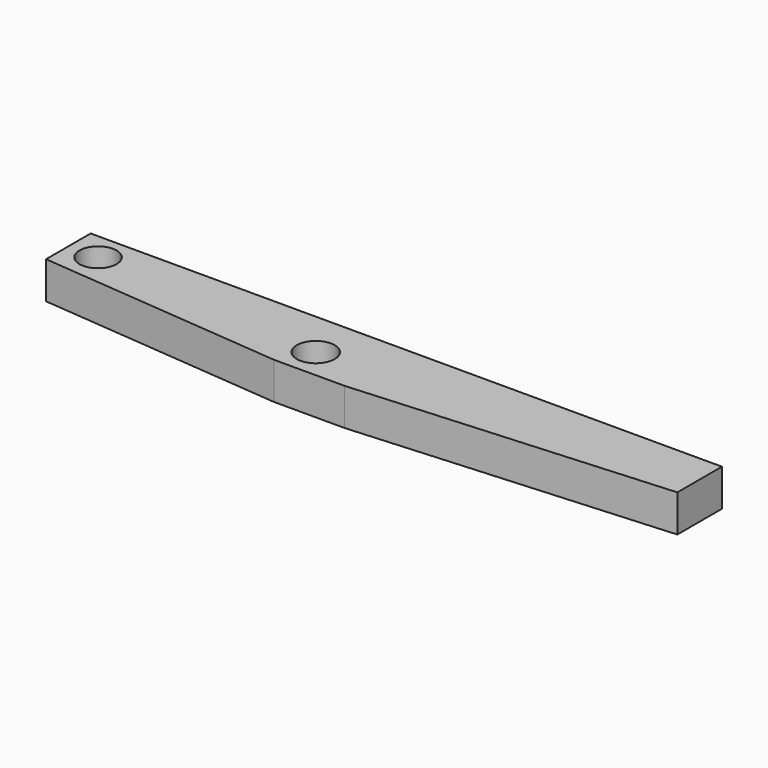
from build123d import *

# Parameters (mm, degrees)
F0_R     = 3.175
F1_DEPTH = 6.35
F2_R     = 1.27
F3_DEPTH = 6.35


with BuildPart() as f1:
    # F0 (on Top) → F1 (new body)
    with BuildSketch(Plane.XY):
        with BuildLine():
            Line((53.975, -4.7625), (53.975, 4.7625))
            Line((53.975, 4.7625), (-53.975, 4.7625))
            Line((-53.975, 4.7625), (-53.975, -4.7625))
            Line((-53.975, -4.7625), (-11.932037, -4.7625))
            ThreePointArc((-11.932037, -4.7625), (-9.846276, -0.107658), (-5.8293, -3.2512))
            ThreePointArc((-5.8293, -3.2512), (-5.924258, -4.029676), (-6.203563, -4.7625))
            Line((-6.203563, -4.7625), (53.975, -4.7625))
        make_face()
        with Locations((-48.895, 0)):
            Circle(F0_R, mode=Mode.SUBTRACT)
        with BuildLine():
            Line((0, -8.467332), (53.975, -4.7625))
            Line((53.975, -4.7625), (-6.203563, -4.7625))
            ThreePointArc((-6.203563, -4.7625), (-9.0678, -6.4897), (-11.932037, -4.7625))
            Line((-11.932037, -4.7625), (-53.975, -4.7625))
            Line((-53.975, -4.7625), (-12.065, -8.467332))
            Line((-12.065, -8.467332), (0, -8.467332))
        make_face()
    extrude(amount=F1_DEPTH)

    # F2 (on face) → F3 (cut)
    with BuildSketch(Plane(origin=(0, 4.7625, 0), x_dir=(-1, 0, 0), z_dir=(0, 1, 0))):
        with Locations((-47.625, 3.149986)):
            Circle(F2_R)
        with Locations((-34.925, 3.205997)):
            Circle(F2_R)
    extrude(amount=-F3_DEPTH, mode=Mode.SUBTRACT)


solid = f1.part
